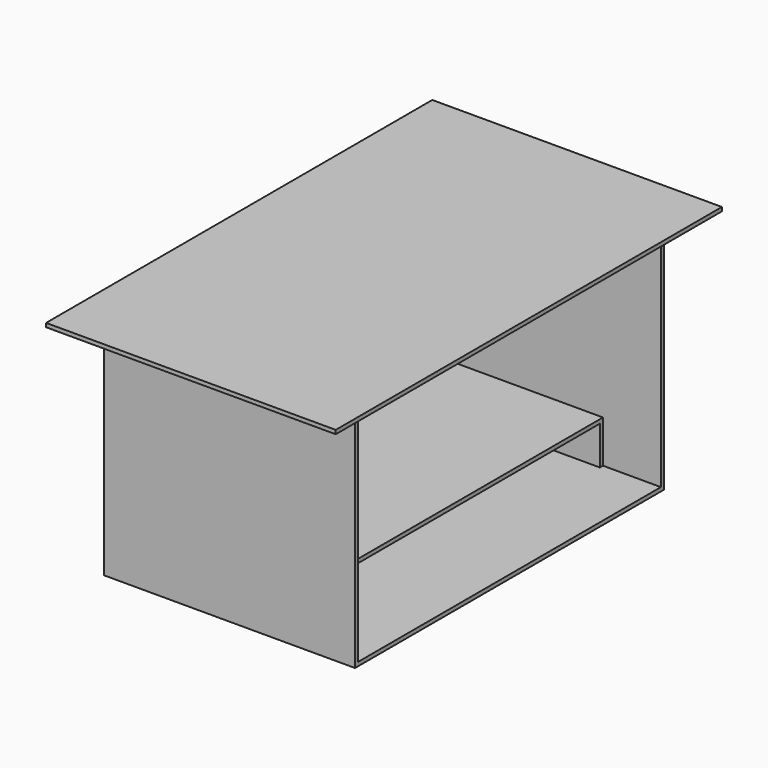
from build123d import *

# Parameters (mm, degrees)
F2_DEPTH      = 1300
F0_W          = 1920
F0_H          = 200
F0_W_2        = 1960
F0_H_2        = 960
F0_W_3        = 20
F3_DEPTH      = 20
F4_DEPTH      = 1000
F5_DEPTH      = 1400
F5_DEPTH_BACK = 100


with BuildPart() as f2:
    # F0 (on Right) → F2 (new body, through all)
    with BuildSketch(Plane.YZ):
        Polygon((-1000, 1200), (-1000, 0), (1000, 0), (1000, 1200), (980, 1200), (980, 240), (980, 220), (980, 20), (960, 20), (-960, 20), (-980, 20), (-980, 220), (-980, 240), (-980, 1200), align=None)
    extrude(amount=F2_DEPTH)

    # F0 (on Right) → F3 (join, through all)
    with BuildSketch(Plane.YZ):
        with Locations((0, 120)):
            Rectangle(F0_W, F0_H)
        with Locations((0, 720)):
            Rectangle(F0_W_2, F0_H_2)
        Polygon((980, 240), (-980, 240), (-980, 220), (-960, 220), (960, 220), (980, 220), align=None)
        with Locations((970, 120)):
            Rectangle(F0_W_3, F0_H)
        with Locations((-970, 120)):
            Rectangle(F0_W_3, F0_H)
    extrude(amount=F3_DEPTH)

    # F0 (on Right) → F4 (join, through all)
    with BuildSketch(Plane.YZ):
        with Locations((-970, 120)):
            Rectangle(F0_W_3, F0_H)
        Polygon((980, 240), (-980, 240), (-980, 220), (-960, 220), (960, 220), (980, 220), align=None)
        with Locations((970, 120)):
            Rectangle(F0_W_3, F0_H)
    extrude(amount=F4_DEPTH)

    # F0 (on Right) → F5 (join, two sides)
    with BuildSketch(Plane.YZ) as f5_sk:
        Polygon((-1250, 1200), (-1000, 1200), (-980, 1200), (980, 1200), (1000, 1200), (1250, 1200), (1250, 1220), (-1250, 1220), align=None)
    extrude(amount=F5_DEPTH)
    extrude(f5_sk.sketch, amount=-F5_DEPTH_BACK)


solid = f2.part
